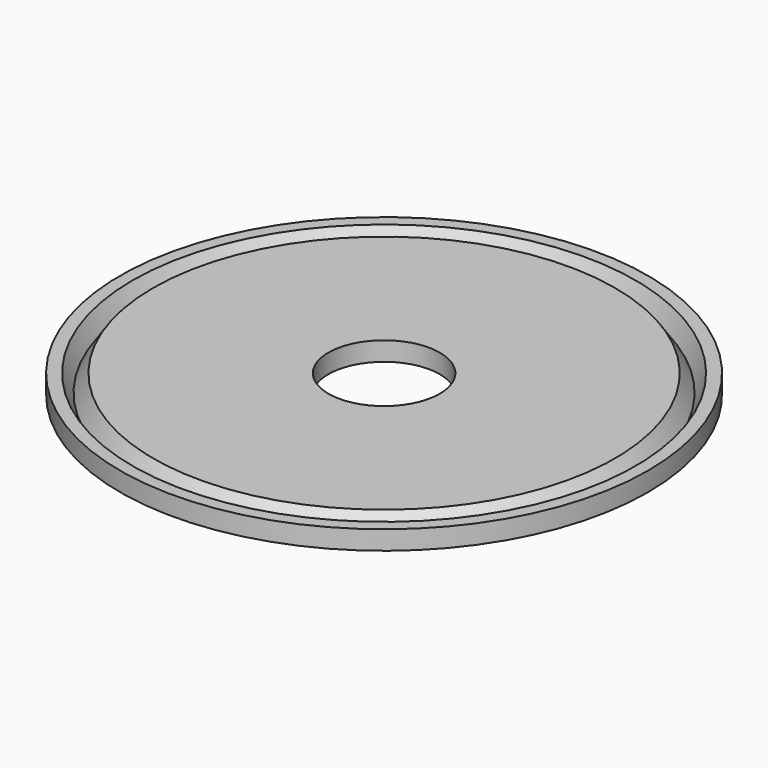
from build123d import *

# Parameters (mm, degrees)
F0_W = 16.144618
F0_H = 1.473329


with BuildPart() as f1:
    # F0 (on Front) → F1 (revolve)
    with BuildSketch(Plane.XZ):
        with Locations((7.630311, 15.001751)):
            Rectangle(F0_W, F0_H)
    revolve(axis=Axis((-4.758904, 0, 10.555782), (0, 0, 1)))

    # F2 (on Front) → F3 (revolve, cut)
    with BuildSketch(Plane.XZ):
        Polygon((-24.613572, 16.433064), (-23.55846, 14.407736), (-22.18803, 16.433064), align=None)
    revolve(axis=Axis((-4.758904, 0, 10.555782), (0, 0, 1)), mode=Mode.SUBTRACT)


solid = f1.part
